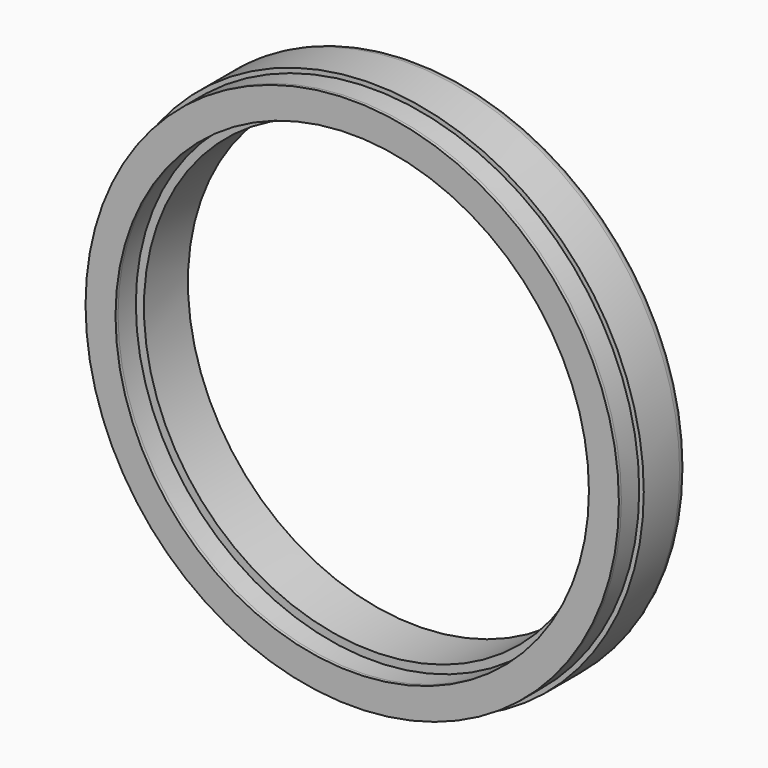
from build123d import *

# Parameters (mm, degrees)
F0_R     = 33.909
F0_R_2   = 28.575
F1_DEPTH = 9.652
F2_R     = 33.3375
F2_R_2   = 29.591
F3_DEPTH = 4.699
F4_R     = 1.27
F5_DEPTH = 1.5367
F6_DEPTH = 2.7686
F7_DEPTH = 2.7813


with BuildPart() as f1:
    # F0 (on Front) → F1 (new body)
    with BuildSketch(Plane.XZ):
        Circle(F0_R)
        Circle(F0_R_2, mode=Mode.SUBTRACT)
    extrude(amount=F1_DEPTH)

    # F2 (on face) → F3 (join)
    with BuildSketch(Plane.XZ.offset(9.652)):
        Circle(F2_R)
        Circle(F2_R_2, mode=Mode.SUBTRACT)
    extrude(amount=F3_DEPTH)

    # F4
    f4_edges = [f1.edges().sort_by_distance(p)[0] for p in [
        (-33.909, 0, 0),
    ]]
    fillet(f4_edges, radius=F4_R)

    # F5 (cut): a face of the model
    f5_faces = [f1.faces().sort_by_distance(p)[0] for p in [
        (-32.3945731073, -14.351, 0),
    ]]
    extrude(f5_faces, amount=-F5_DEPTH, mode=Mode.SUBTRACT)

    # F6 (cut): a face of the model
    f6_faces = [f1.faces().sort_by_distance(p)[0] for p in [
        (-32.3945731073, -12.8143, 0),
    ]]
    extrude(f6_faces, amount=-F6_DEPTH, mode=Mode.SUBTRACT)

    # F7 (cut): faces of the model
    f7_faces = [f1.faces().sort_by_distance(p)[0] for p in [
        (-33.8130908646, -9.652, 0),
        (-28.7540401295, -9.652, 0),
    ]]
    extrude(f7_faces, amount=-F7_DEPTH, mode=Mode.SUBTRACT)


solid = f1.part
